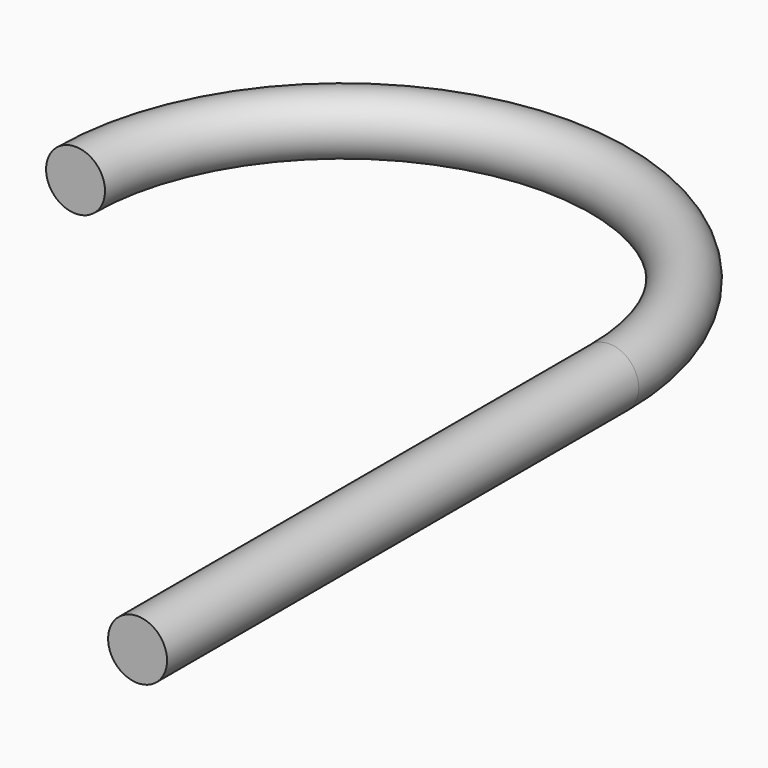
from build123d import *

# Parameters (mm, degrees)
F1_R = 1.27


with BuildPart() as f2:
    # F2: sweep along a path in F0
    with BuildLine(Plane.XY) as f2_path:
        Line((0, 0), (0, 25.4))
        ThreePointArc((0, 25.4), (-11.49569, 36.89569), (-22.99138, 25.4))
    # F1 (on Front) → F2 (sweep)
    with BuildSketch(Plane.XZ):
        Circle(F1_R)
    sweep(path=f2_path.line)


solid = f2.part
